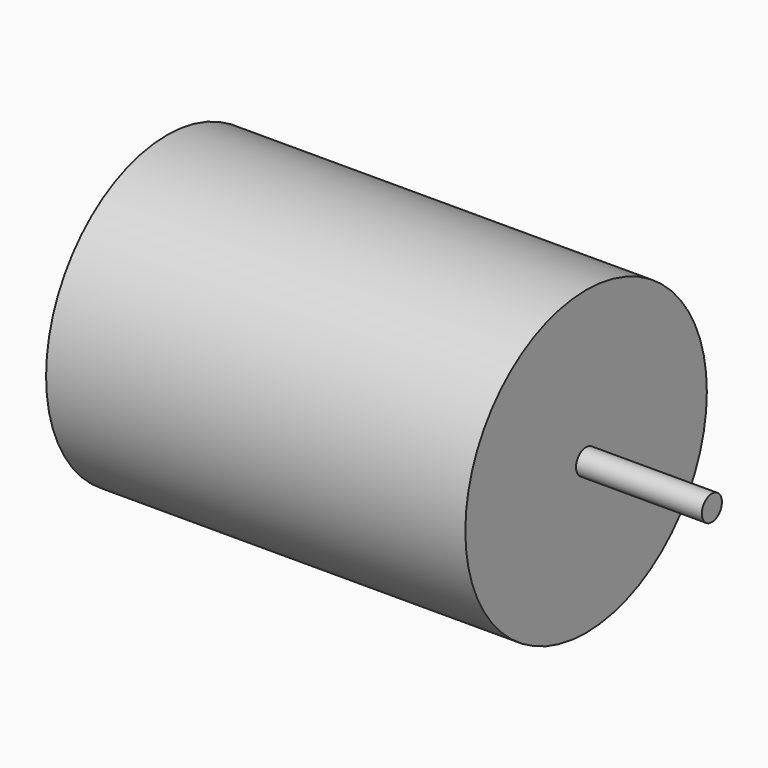
from build123d import *

# Parameters (mm, degrees)
CYLINDER852_R     = 1.5
CYLINDER852_DEPTH = 65
CYLINDER798_R     = 18
CYLINDER798_DEPTH = 50


with BuildPart() as cylinder852:
    # Cylinder852 → Cylinder852 (new body)
    with BuildSketch(Plane(origin=(31, 89, 23), x_dir=(0, 0, -1), z_dir=(1, 0, 0))):
        Circle(CYLINDER852_R)
    extrude(amount=CYLINDER852_DEPTH)


with BuildPart() as main_motor:
    # Cylinder798 → Cylinder798 (new body)
    with BuildSketch(Plane(origin=(31, 89, 23), x_dir=(0, 0, -1), z_dir=(1, 0, 0))):
        Circle(CYLINDER798_R)
    extrude(amount=CYLINDER798_DEPTH)

    # Fusion627: union Cylinder852
    add(cylinder852.part)


solid = main_motor.part
